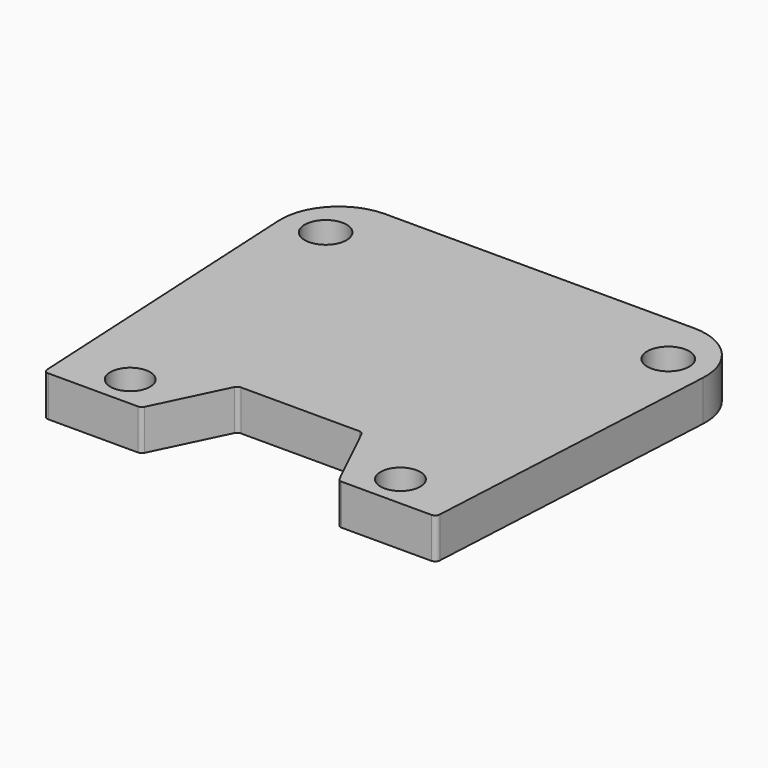
from build123d import *

# Parameters (mm, degrees)
F0_R     = 2.061288
F0_R_2   = 2.172791
F1_DEPTH = 4.2


with BuildPart() as f1:
    # F0 (on Top) → F1 (new body)
    with BuildSketch(Plane.XY):
        with BuildLine():
            Line((16.011793, 23.255279), (0, 23.255279))
            Line((0, 23.255279), (-16.011793, 23.255279))
            ThreePointArc((-16.011793, 23.255279), (-20.363271, 21.386215), (-22.003686, 16.94349))
            Line((-22.003686, 16.94349), (-20.336709, -15.092083))
            ThreePointArc((-20.336709, -15.092083), (-20.181629, -15.428724), (-19.837385, -15.566101))
            Line((-19.837385, -15.566101), (-10.547646, -15.566101))
            ThreePointArc((-10.547646, -15.566101), (-10.282024, -15.48971), (-10.097566, -15.283881))
            Line((-10.097566, -15.283881), (-6.591564, -8.038143))
            ThreePointArc((-6.591564, -8.038143), (-6.407106, -7.832314), (-6.141484, -7.755924))
            Line((-6.141484, -7.755924), (0, -7.755924))
            Line((0, -7.755924), (6.141484, -7.755924))
            ThreePointArc((6.141484, -7.755924), (6.407106, -7.832314), (6.591564, -8.038143))
            Line((6.591564, -8.038143), (10.097566, -15.283881))
            ThreePointArc((10.097566, -15.283881), (10.282024, -15.48971), (10.547646, -15.566101))
            Line((10.547646, -15.566101), (19.837385, -15.566101))
            ThreePointArc((19.837385, -15.566101), (20.181629, -15.428724), (20.336709, -15.092083))
            Line((20.336709, -15.092083), (22.003686, 16.94349))
            ThreePointArc((22.003686, 16.94349), (20.363271, 21.386215), (16.011793, 23.255279))
        make_face()
        with Locations((-14, -12.264313)):
            Circle(F0_R, mode=Mode.SUBTRACT)
        with Locations((14, -12.264313)):
            Circle(F0_R, mode=Mode.SUBTRACT)
        with Locations((-17.75, 17.735687)):
            Circle(F0_R_2, mode=Mode.SUBTRACT)
        with Locations((17.75, 17.735687)):
            Circle(F0_R_2, mode=Mode.SUBTRACT)
    extrude(amount=F1_DEPTH)


solid = f1.part
